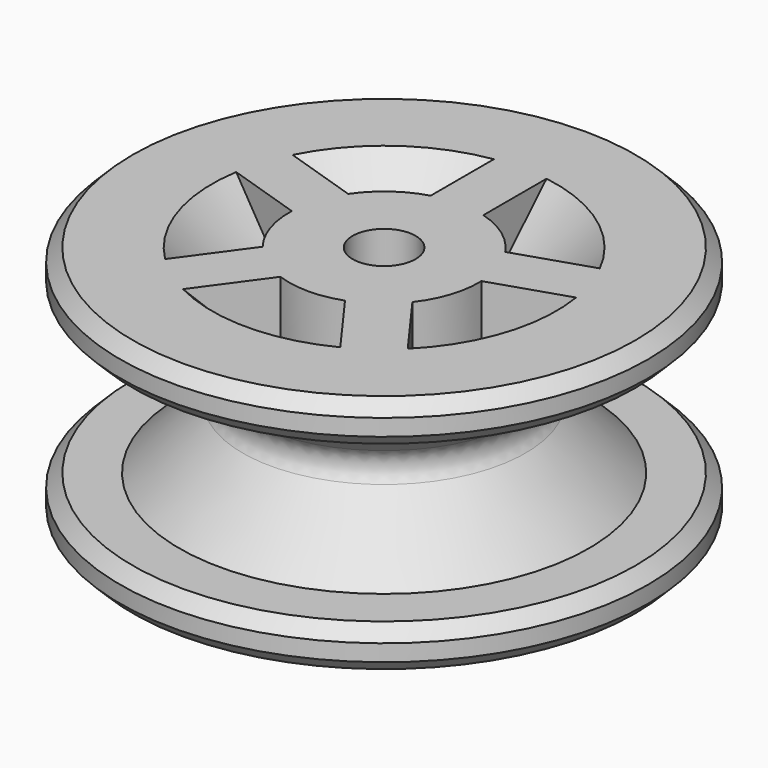
from build123d import *

# Parameters (mm, degrees)
F0_R     = 15.9004
F1_DEPTH = 7.239
F2_R     = 1.89865
F3_DEPTH = 14.479
F6_W     = 3.175
F6_H     = 7.62
F8_R     = 1.27
F9_SIZE  = 0.762
F10_W    = 3.175
F10_H    = 7.0210194136


with BuildPart() as f1:
    # F0 (on Top) → F1 (new body, symmetric)
    with BuildSketch(Plane.XY):
        Circle(F0_R)
    extrude(amount=F1_DEPTH, both=True)

    # F2 (on face) → F3 (cut, through all)
    with BuildSketch(Plane.XY.offset(7.239)):
        Circle(F2_R)
    extrude(amount=-F3_DEPTH, mode=Mode.SUBTRACT)

    # F4 (on Right) → F5 (revolve, cut)
    with BuildSketch(Plane.YZ):
        Polygon((17.7447939179, -4.7117), (17.7447939179, 4.7117), (12.3317, 4.7117), (7.62, 0), (12.3317, -4.7117), align=None)
        Polygon((11.9630908832, 8.8332189437), (5.715, 8.8332189437), (5.715, 2.5851280605), align=None)
        Polygon((5.715, -2.5851280605), (5.715, -8.8332189437), (11.9630908832, -8.8332189437), align=None)
    revolve(axis=Axis((0, 0, 6.9109424949), (0, 0, 1)), mode=Mode.SUBTRACT)

    # F6 (on face) → F7 (join, up to the next surface of F1)
    with BuildSketch(Plane.XY.offset(7.239)):
        with Locations((0, 8.6958226153)):
            Rectangle(F6_W, F6_H)
        Polygon((-11.4031796113, 5.3743139364), (-12.3843085684, 2.3547094971), (-5.1372579143, 0), (-4.1561289571, 3.0196044392), align=None)
        Polygon((-8.6350525796, -9.1843139364), (-6.0664236225, -11.0505321124), (-1.5875, -4.8858226153), (-4.1561289571, -3.0196044392), align=None)
        Polygon((6.0664236225, -11.0505321124), (8.6350525796, -9.1843139364), (4.1561289571, -3.0196044392), (1.5875, -4.8858226153), align=None)
        Polygon((12.3843085684, 2.3547094971), (11.4031796113, 5.3743139364), (4.1561289571, 3.0196044392), (5.1372579143, 0), align=None)
    extrude(until=Until.NEXT, dir=(0, 0, -1))

    # F8
    f8_edges = [f1.edges().sort_by_distance(p)[0] for p in [
        (0, -7.62, 0),
    ]]
    fillet(f8_edges, radius=F8_R)

    # F9
    f9_edges = [f1.edges().sort_by_distance(p)[0] for p in [
        (-15.9004, 0, 7.239),
        (-15.9004, 0, 4.7117),
        (-15.9004, 0, -4.7117),
        (-15.9004, 0, -7.239),
    ]]
    chamfer(f9_edges, length=F9_SIZE)

    # F10 (on face) → F11 (join, up to the next surface of F1)
    with BuildSketch(Plane(origin=(0, 0, -7.239), x_dir=(1, 0, 0), z_dir=(0, 0, -1))):
        with Locations((0, 8.1105777954)):
            Rectangle(F10_W, F10_H)
        Polygon((-3.8843602525, 2.9313014343), (-10.5617465169, 5.1009157509), (-11.542875474, 2.0813113117), (-4.8654892097, -0.088303005), align=None)
        Polygon((-3.9881666606, -2.788424171), (-8.115018328, -8.4685481944), (-5.5463893709, -10.3347663705), (-1.4195377035, -4.654642347), align=None)
        Polygon((1.4195377035, -4.654642347), (5.5463893709, -10.3347663705), (8.115018328, -8.4685481944), (3.9881666606, -2.788424171), align=None)
        Polygon((4.8654892097, -0.088303005), (11.542875474, 2.0813113117), (10.5617465169, 5.1009157509), (3.8843602525, 2.9313014343), align=None)
    extrude(until=Until.NEXT, dir=(0, 0, 1))


solid = f1.part
